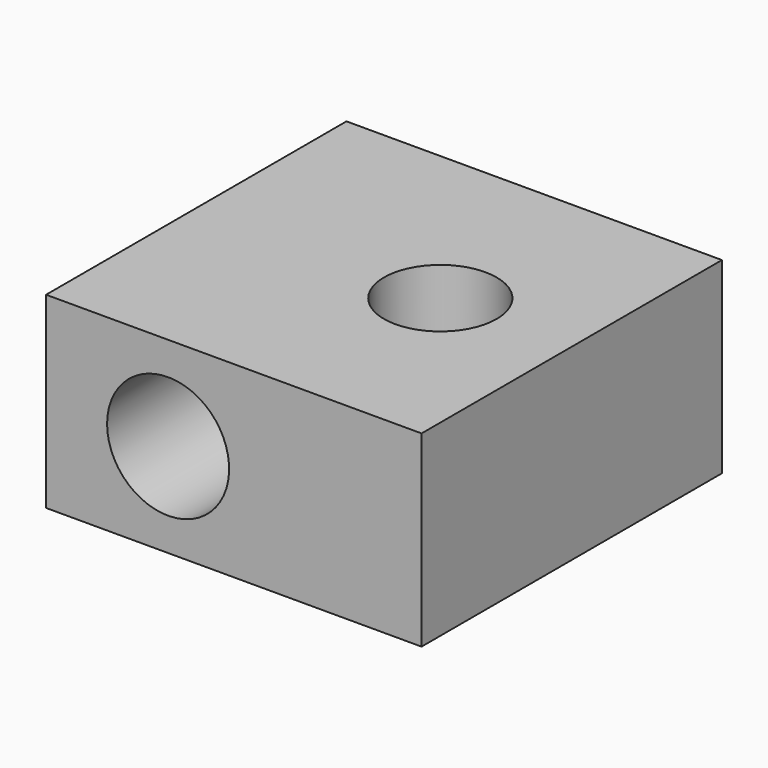
from build123d import *

# Parameters (mm, degrees)
F0_W     = 20
F0_H     = 20
F0_R     = 3
F1_DEPTH = 10
F2_R     = 3.25
F3_DEPTH = 20.001
F2_R_2   = 1.5
F4_DEPTH = 5


with BuildPart() as f1:
    # F0 (on Top) → F1 (new body)
    with BuildSketch(Plane.XY):
        Rectangle(F0_W, F0_H)
        with Locations((3, 0)):
            Circle(F0_R, mode=Mode.SUBTRACT)
    extrude(amount=F1_DEPTH)

    # F2 (on face) → F3 (cut, through all)
    with BuildSketch(Plane(origin=(0, 10, 0), x_dir=(-1, 0, 0), z_dir=(0, 1, 0))):
        with Locations((3.5, 5)):
            Circle(F2_R)
    extrude(amount=-F3_DEPTH, mode=Mode.SUBTRACT)

    # F2 (on face) → F4 (cut)
    with BuildSketch(Plane(origin=(0, 10, 0), x_dir=(-1, 0, 0), z_dir=(0, 1, 0))):
        with Locations((-4, 5)):
            Circle(F2_R_2)
    extrude(amount=-F4_DEPTH, mode=Mode.SUBTRACT)


solid = f1.part
